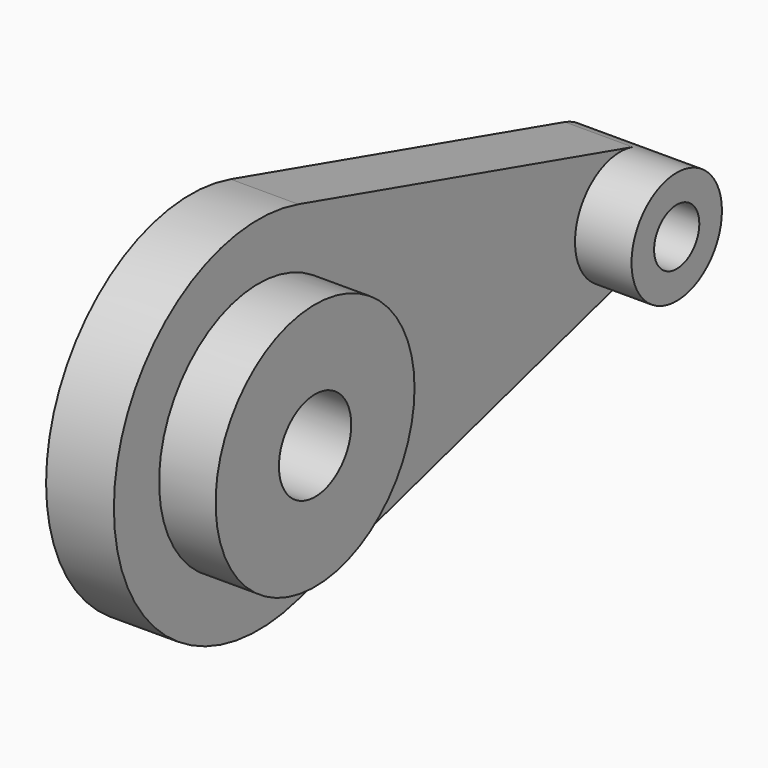
from build123d import *

# Parameters (mm, degrees)
F0_R     = 20
F0_R_2   = 12.5
F1_DEPTH = 30
F2_R     = 55
F2_R_2   = 20
F3_DEPTH = 25
F4_R     = 12.5
F5_DEPTH = 25


with BuildPart() as f1:
    # F0 (on Right) → F1 (new body)
    with BuildSketch(Plane.YZ):
        with BuildLine():
            ThreePointArc((22, -76.9155380921), (63.8748776907, -48.1663783152), (80, 0))
            ThreePointArc((80, 0), (63.8748776907, 48.1663783152), (22, 76.9155380921))
            ThreePointArc((22, 76.9155380921), (-80, 0), (22, -76.9155380921))
        make_face()
        Circle(F0_R, mode=Mode.SUBTRACT)
        with BuildLine():
            ThreePointArc((22, 76.9155380921), (63.8748776907, 48.1663783152), (80, 0))
            ThreePointArc((80, 0), (63.8748776907, -48.1663783152), (22, -76.9155380921))
            Line((22, -76.9155380921), (206.875, -24.0361056538))
            ThreePointArc((206.875, -24.0361056538), (175, 0), (206.875, 24.0361056538))
            Line((206.875, 24.0361056538), (22, 76.9155380921))
        make_face()
        with BuildLine():
            ThreePointArc((225, 0), (219.9608992783, 15.0519932235), (206.875, 24.0361056538))
            ThreePointArc((206.875, 24.0361056538), (175, 0), (206.875, -24.0361056538))
            ThreePointArc((206.875, -24.0361056538), (219.9608992783, -15.0519932235), (225, 0))
        make_face()
        with Locations((200, 0)):
            Circle(F0_R_2, mode=Mode.SUBTRACT)
    extrude(amount=F1_DEPTH)

    # F2 (on face) → F3 (join)
    with BuildSketch(Plane.YZ.offset(30)):
        Circle(F2_R)
        Circle(F2_R_2, mode=Mode.SUBTRACT)
    extrude(amount=F3_DEPTH)

    # F4 (on face) → F5 (join)
    with BuildSketch(Plane.YZ.offset(30)):
        with BuildLine():
            ThreePointArc((206.875, -24.0361056538), (219.9608992783, -15.0519932235), (225, 0))
            ThreePointArc((225, 0), (219.9608992783, 15.0519932235), (206.875, 24.0361056538))
            ThreePointArc((206.875, 24.0361056538), (175, 0), (206.875, -24.0361056538))
        make_face()
        with Locations((200, 0)):
            Circle(F4_R, mode=Mode.SUBTRACT)
    extrude(amount=F5_DEPTH)


solid = f1.part
